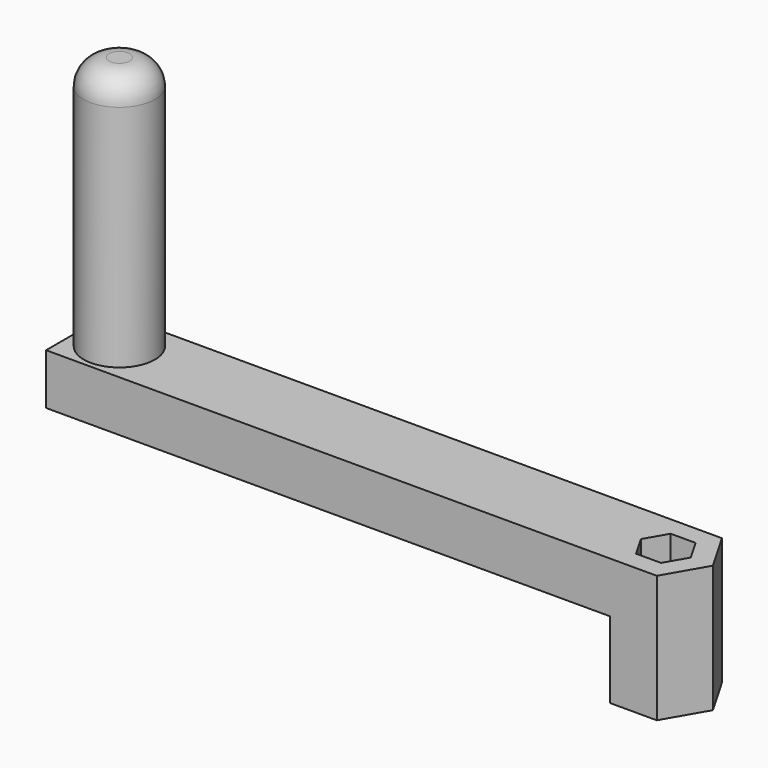
from build123d import *

# Parameters (mm, degrees)
F1_DEPTH = 10
F2_DEPTH = 25
F3_R     = 7
F4_DEPTH = 60
F5_R     = 5


with BuildPart() as f1:
    # F0 (on Top) → F1 (new body)
    with BuildSketch(Plane.XY):
        Polygon((-115.381198, -8), (-4.618802, -8), (-9.237604, 0), (-4.618802, 8), (-115.381198, 8), align=None)
    extrude(amount=-F1_DEPTH)

    # F0 (on Top) → F2 (join)
    with BuildSketch(Plane.XY):
        Polygon((4.618802, -8), (9.237604, 0), (4.618802, 8), (-4.618802, 8), (-9.237604, 0), (-4.618802, -8), align=None)
        Polygon((2.453739, 4.25), (4.907477, 0), (2.453739, -4.25), (-2.453739, -4.25), (-4.907477, 0), (-2.453739, 4.25), align=None, mode=Mode.SUBTRACT)
    extrude(amount=-F2_DEPTH)

    # F3 (on face) → F4 (join)
    with BuildSketch(Plane(origin=(0, 0, -10), x_dir=(1, 0, 0), z_dir=(0, 0, -1))):
        with Locations((-107.381198, 0)):
            Circle(F3_R)
    extrude(amount=-F4_DEPTH)

    # F5
    f5_edges = [f1.edges().sort_by_distance(p)[0] for p in [
        (-114.381198, 0, 50),
    ]]
    fillet(f5_edges, radius=F5_R)


solid = f1.part
